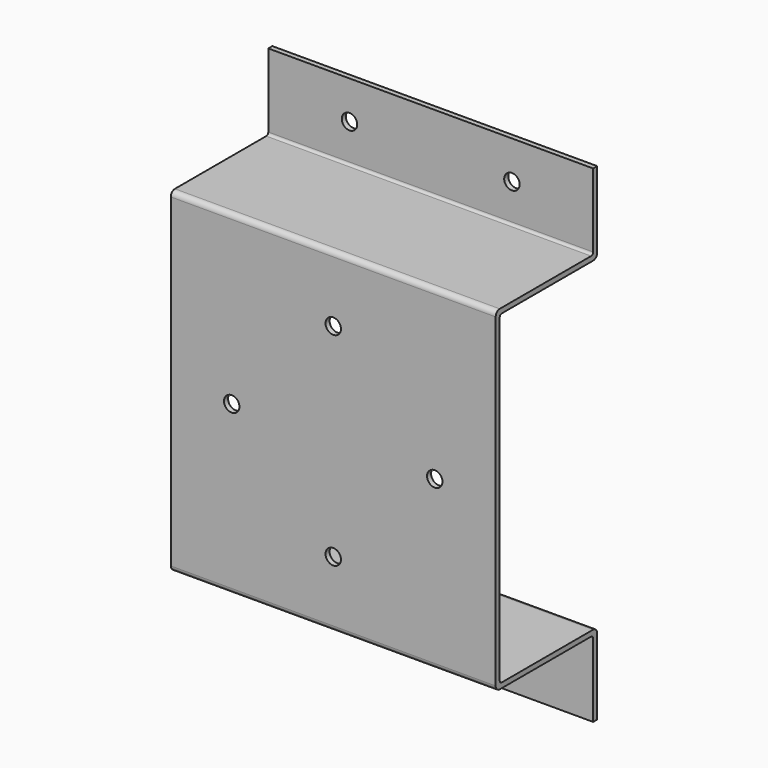
from build123d import *

# Parameters (mm, degrees)
F1_DEPTH = 101.6
F3_D     = 4.826
F5_D     = 4.826
F7_D     = 4.826
F9_D     = 4.826


with BuildPart() as f1:
    # F0 (on Right) → F1 (new body)
    with BuildSketch(Plane.YZ):
        with BuildLine():
            Line((-37.30625, 50.8), (-1.5875, 50.8))
            ThreePointArc((-1.5875, 50.8), (-0.464968, 51.264968), (0, 52.3875))
            Line((0, 52.3875), (0, 76.2))
            Line((0, 76.2), (-1.5875, 76.2))
            Line((-1.5875, 76.2), (-1.5875, 53.18125))
            ThreePointArc((-1.5875, 53.18125), (-1.819984, 52.619984), (-2.38125, 52.3875))
            Line((-2.38125, 52.3875), (-38.1, 52.3875))
            ThreePointArc((-38.1, 52.3875), (-39.222532, 51.922532), (-39.6875, 50.8))
            Line((-39.6875, 50.8), (-39.6875, 0))
            Line((-39.6875, 0), (-39.6875, -50.8))
            ThreePointArc((-39.6875, -50.8), (-39.222532, -51.922532), (-38.1, -52.3875))
            Line((-38.1, -52.3875), (-2.38125, -52.3875))
            ThreePointArc((-2.38125, -52.3875), (-1.819984, -52.619984), (-1.5875, -53.18125))
            Line((-1.5875, -53.18125), (-1.5875, -76.2))
            Line((-1.5875, -76.2), (0, -76.2))
            Line((0, -76.2), (0, -52.3875))
            ThreePointArc((0, -52.3875), (-0.464968, -51.264968), (-1.5875, -50.8))
            Line((-1.5875, -50.8), (-37.30625, -50.8))
            ThreePointArc((-37.30625, -50.8), (-37.867516, -50.567516), (-38.1, -50.00625))
            Line((-38.1, -50.00625), (-38.1, 0))
            Line((-38.1, 0), (-38.1, 50.00625))
            ThreePointArc((-38.1, 50.00625), (-37.867516, 50.567516), (-37.30625, 50.8))
        make_face()
    extrude(amount=F1_DEPTH)

    # F3 (through all)
    with Locations(Plane.XZ.offset(1.5875)):
        with Locations((25.4, -64.29375), (76.2, -64.29375)):
            Hole(F3_D / 2)

    # F5 (through all)
    with Locations(Plane.XZ.offset(1.5875)):
        with Locations((25.4, 64.29375), (76.2, 64.29375)):
            Hole(F5_D / 2)

    # F7 (through all)
    with Locations(Plane.XZ.offset(39.6875)):
        with Locations((19.05, 0), (82.55, 0)):
            Hole(F7_D / 2)

    # F9 (through all)
    with Locations(Plane.XZ.offset(39.6875)):
        with Locations((50.8, -31.75), (50.8, 31.75)):
            Hole(F9_D / 2)


solid = f1.part
